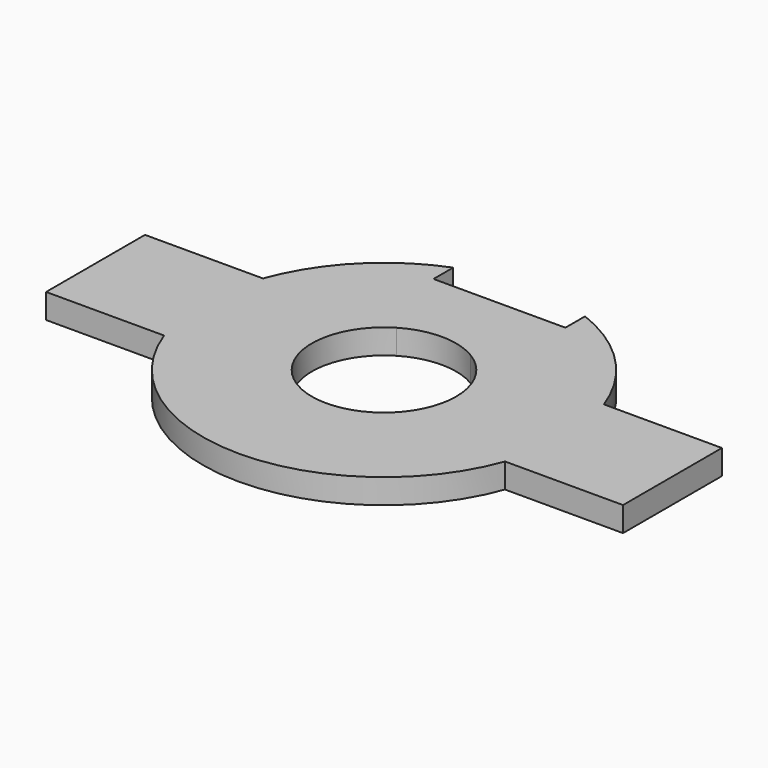
from build123d import *

# Parameters (mm, degrees)
F1_DEPTH = 6


with BuildPart() as f1:
    # F0 (on Top) → F1 (new body)
    with BuildSketch(Plane.XY):
        with BuildLine():
            ThreePointArc((-37.1493010532, -12.3887201771), (-39.7850652933, 2.6112798229), (-37.1493010532, 17.6112798229))
            Line((-37.1493010532, 17.6112798229), (-65.7850652933, 17.6112798229))
            Line((-65.7850652933, 17.6112798229), (-65.7850652933, -12.3887201771))
            Line((-65.7850652933, -12.3887201771), (-37.1493010532, -12.3887201771))
        make_face()
        with BuildLine():
            ThreePointArc((-4.798943482, -12.3887201771), (-13.2850652933, 2.6112798229), (-4.798943482, 17.6112798229))
            Line((-4.798943482, 17.6112798229), (-37.1493010532, 17.6112798229))
            ThreePointArc((-37.1493010532, 17.6112798229), (-39.7850652933, 2.6112798229), (-37.1493010532, -12.3887201771))
            Line((-37.1493010532, -12.3887201771), (-4.798943482, -12.3887201771))
        make_face()
        with BuildLine():
            ThreePointArc((13.2288128953, 17.6112798229), (19.4463638632, 11.2283307018), (21.7149347067, 2.6112798229))
            ThreePointArc((21.7149347067, 2.6112798229), (19.4463638632, -6.005771056), (13.2288128953, -12.3887201771))
            Line((13.2288128953, -12.3887201771), (45.5791704666, -12.3887201771))
            ThreePointArc((45.5791704666, -12.3887201771), (47.5509842119, -5.0036274833), (48.2149347067, 2.6112798229))
            ThreePointArc((48.2149347067, 2.6112798229), (47.5509842119, 10.2261871291), (45.5791704666, 17.6112798229))
            Line((45.5791704666, 17.6112798229), (13.2288128953, 17.6112798229))
        make_face()
        with BuildLine():
            Line((74.2149347067, 17.6112798229), (45.5791704666, 17.6112798229))
            ThreePointArc((45.5791704666, 17.6112798229), (47.5509842119, 10.2261871291), (48.2149347067, 2.6112798229))
            ThreePointArc((48.2149347067, 2.6112798229), (47.5509842119, -5.0036274833), (45.5791704666, -12.3887201771))
            Line((45.5791704666, -12.3887201771), (74.2149347067, -12.3887201771))
            Line((74.2149347067, -12.3887201771), (74.2149347067, 17.6112798229))
        make_face()
        with BuildLine():
            ThreePointArc((-4.798943482, 17.6112798229), (4.2149347067, 20.1112798229), (13.2288128953, 17.6112798229))
            Line((13.2288128953, 17.6112798229), (45.5791704666, 17.6112798229))
            ThreePointArc((45.5791704666, 17.6112798229), (35.703112855, 33.3439112901), (20.2149347067, 43.5990828867))
            Line((20.2149347067, 43.5990828867), (20.2149347067, 37.6344849233))
            Line((20.2149347067, 37.6344849233), (-11.7850652933, 37.6344849233))
            Line((-11.7850652933, 37.6344849233), (-11.7850652933, 43.5990828867))
            ThreePointArc((-11.7850652933, 43.5990828867), (-27.2732434416, 33.3439112901), (-37.1493010532, 17.6112798229))
            Line((-37.1493010532, 17.6112798229), (-4.798943482, 17.6112798229))
        make_face()
        with BuildLine():
            Line((45.5791704666, -12.3887201771), (13.2288128953, -12.3887201771))
            ThreePointArc((13.2288128953, -12.3887201771), (4.2149347067, -14.8887201771), (-4.798943482, -12.3887201771))
            Line((-4.798943482, -12.3887201771), (-37.1493010532, -12.3887201771))
            ThreePointArc((-37.1493010532, -12.3887201771), (4.2149347067, -41.3887201771), (45.5791704666, -12.3887201771))
        make_face()
    extrude(amount=F1_DEPTH)


solid = f1.part
